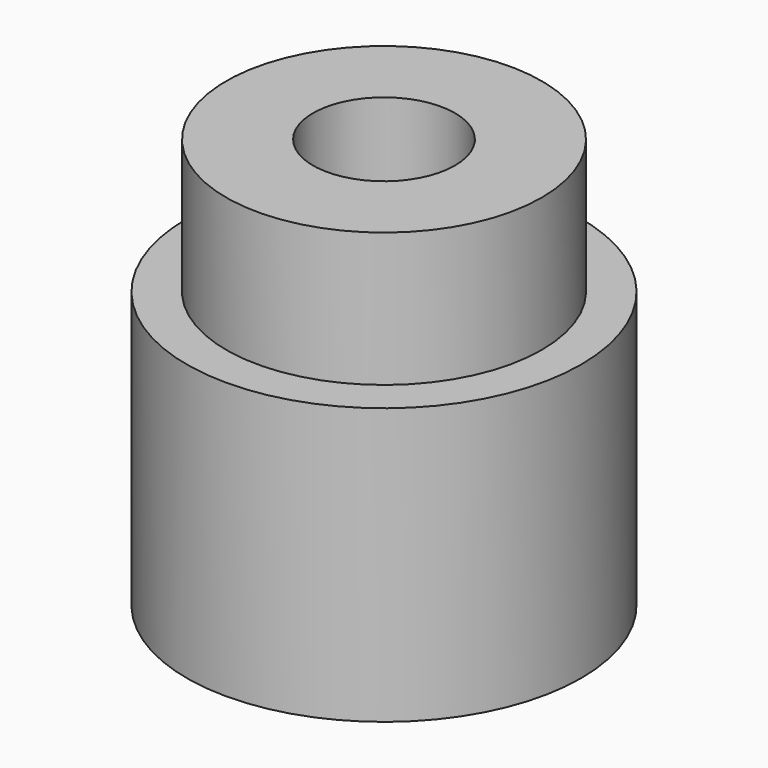
from build123d import *

# Parameters (mm, degrees)
CYLINDER022_R     = 0.9
CYLINDER022_DEPTH = 10
CYLINDER020_R     = 2.5
CYLINDER020_DEPTH = 3.5
CYLINDER021_R     = 2
CYLINDER021_DEPTH = 5.2


with BuildPart() as cylinder022:
    # Cylinder022 → Cylinder022 (new body)
    with BuildSketch(Plane.XY):
        Circle(CYLINDER022_R)
    extrude(amount=CYLINDER022_DEPTH)


with BuildPart() as cylinder020:
    # Cylinder020 → Cylinder020 (new body)
    with BuildSketch(Plane.XY):
        Circle(CYLINDER020_R)
    extrude(amount=CYLINDER020_DEPTH)


with BuildPart() as obj1:
    # Cylinder021 → Cylinder021 (new body)
    with BuildSketch(Plane.XY):
        Circle(CYLINDER021_R)
    extrude(amount=CYLINDER021_DEPTH)

    # Fusion012: union Cylinder020
    add(cylinder020.part)

    # Cut004: cut Cylinder022
    add(cylinder022.part, mode=Mode.SUBTRACT)


solid = obj1.part
